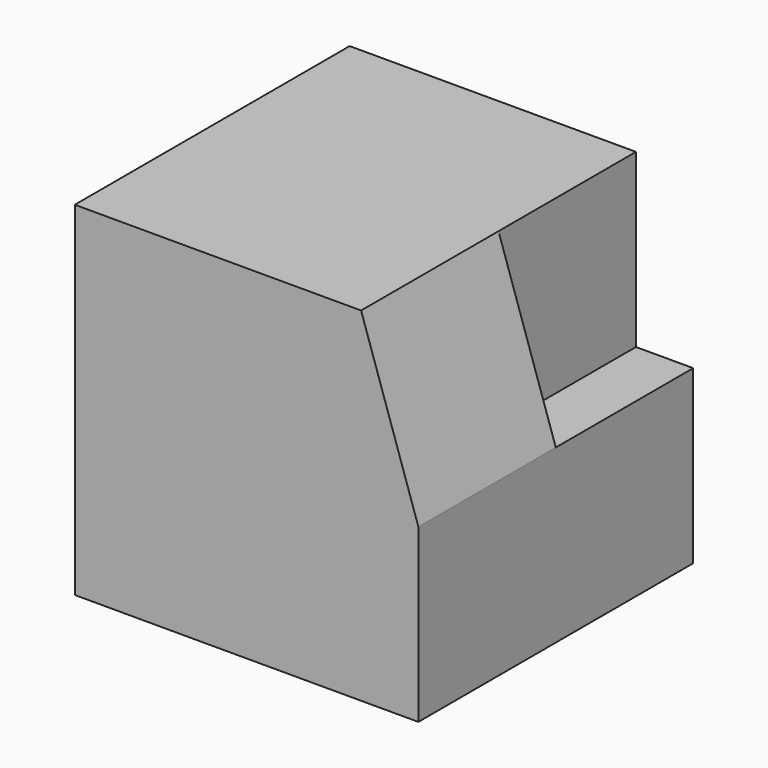
from build123d import *

# Parameters (mm, degrees)
F1_DEPTH = 76.2
F3_DEPTH = 76.2


with BuildPart() as f1:
    # F0 (on Front) → F1 (new body, symmetric)
    with BuildSketch(Plane.XZ):
        Polygon((-152.4, 0), (0, 0), (0, 76.2), (-25.4, 152.4), (-152.4, 152.4), align=None)
    extrude(amount=F1_DEPTH, both=True)

    # F2 (on face) → F3 (cut)
    with BuildSketch(Plane(origin=(0, 76.2, 0), x_dir=(-1, 0, 0), z_dir=(0, 1, 0))):
        Polygon((25.4, 152.4), (0, 76.2), (25.4, 76.2), align=None)
    extrude(amount=-F3_DEPTH, mode=Mode.SUBTRACT)


solid = f1.part
